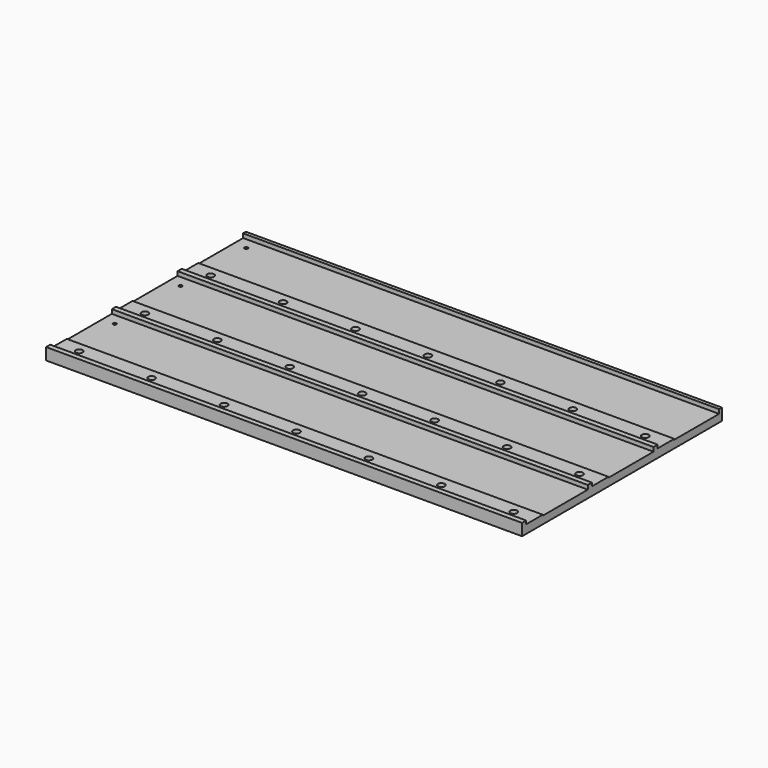
from build123d import *

# Parameters (mm, degrees)
F0_W     = 230
F0_H     = 120.7
F1_DEPTH = 3.7
F2_W     = 230
F2_H     = 1.7
F2_H_2   = 2.5
F3_DEPTH = 2
F4_W     = 230
F4_H     = 10
F5_DEPTH = 0.4
F6_W     = 230
F6_H     = 10
F7_DEPTH = 0.4
F8_W     = 230
F8_H     = 10
F9_DEPTH = 0.4
F11_D    = 3.3
F13_D    = 3.3
F15_D    = 3.3
F17_D    = 1.6
F19_D    = 1.6
F21_D    = 1.6


with BuildPart() as f1:
    # F0 (on Top) → F1 (new body)
    with BuildSketch(Plane.XY):
        Rectangle(F0_W, F0_H)
    extrude(amount=F1_DEPTH)

    # F2 (on face) → F3 (join)
    with BuildSketch(Plane.XY.offset(3.7)):
        with Locations((0, 59.5)):
            Rectangle(F2_W, F2_H)
        with Locations((0, 20.3)):
            Rectangle(F2_W, F2_H_2)
        with Locations((0, -19.4)):
            Rectangle(F2_W, F2_H_2)
        with Locations((0, -59.1)):
            Rectangle(F2_W, F2_H_2)
    extrude(amount=F3_DEPTH)

    # F4 (on face) → F5 (join)
    with BuildSketch(Plane.XY.offset(3.7)):
        with Locations((0, 26.55)):
            Rectangle(F4_W, F4_H)
    extrude(amount=F5_DEPTH)

    # F6 (on face) → F7 (join)
    with BuildSketch(Plane.XY.offset(3.7)):
        with Locations((0, -13.15)):
            Rectangle(F6_W, F6_H)
    extrude(amount=F7_DEPTH)

    # F8 (on face) → F9 (join)
    with BuildSketch(Plane.XY.offset(3.7)):
        with Locations((0, -52.85)):
            Rectangle(F8_W, F8_H)
    extrude(amount=F9_DEPTH)

    # F11 (through all)
    with Locations(Plane.XY.offset(4.1)):
        with Locations((-105, 26.55), (-70, 26.55), (-35, 26.55), (0, 26.55), (35, 26.55), (70, 26.55), (105, 26.55)):
            Hole(F11_D / 2)

    # F13 (through all)
    with Locations(Plane.XY.offset(4.1)):
        with Locations((-105, -13.15), (-70, -13.15), (-35, -13.15), (0, -13.15), (35, -13.15), (70, -13.15), (105, -13.15)):
            Hole(F13_D / 2)

    # F15 (through all)
    with Locations(Plane.XY.offset(4.1)):
        with Locations((-105, -52.85), (-70, -52.85), (-35, -52.85), (0, -52.85), (35, -52.85), (70, -52.85), (105, -52.85)):
            Hole(F15_D / 2)

    # F17 (through all)
    with Locations(Plane.XY.offset(3.7)):
        with Locations((-109, 53.05)):
            Hole(F17_D / 2)

    # F19 (through all)
    with Locations(Plane.XY.offset(3.7)):
        with Locations((-109, 13.35)):
            Hole(F19_D / 2)

    # F21 (through all)
    with Locations(Plane.XY.offset(3.7)):
        with Locations((-109, -26.35)):
            Hole(F21_D / 2)


solid = f1.part
